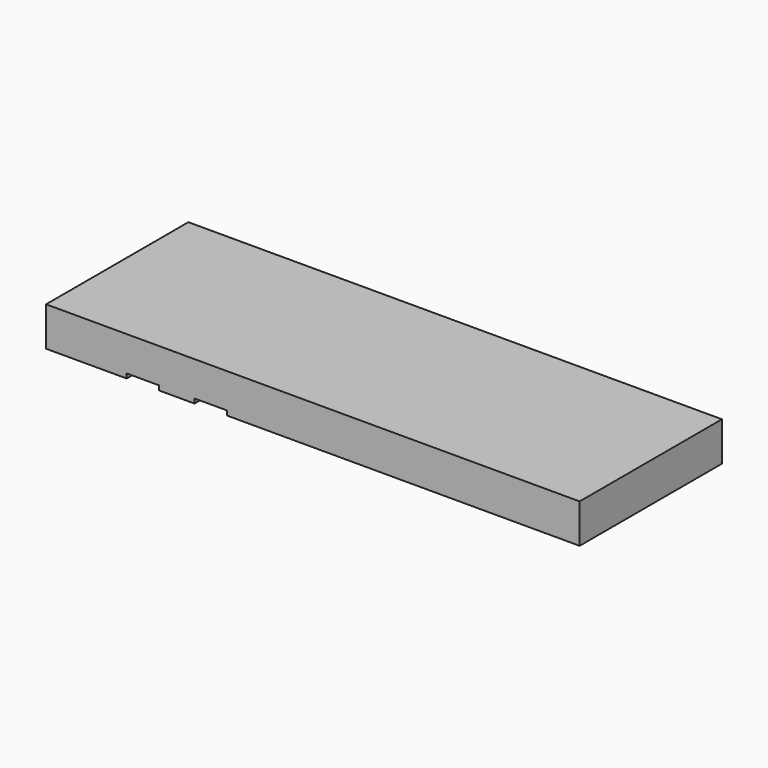
from build123d import *

# Parameters (mm, degrees)
F0_W     = 27.2
F0_H     = 13.6
F1_DEPTH = 3.8
F2_DEPTH = 33


with BuildPart() as f1:
    # F0 (on Top) → F1 (new body)
    with BuildSketch(Plane.XY):
        with Locations((-139.193566, -91.901369)):
            Rectangle(F0_W, F0_H)
        with Locations((-81.993566, -91.901369)):
            Rectangle(F0_W, F0_H)
    extrude(amount=F1_DEPTH)


with BuildPart() as f2:
    # F0 (on Top) → F2 (new body)
    with BuildSketch(Plane.XY):
        Polygon((229.206434, 51.298631), (-220.793566, 51.298631), (-220.793566, -98.701369), (-152.793566, -98.701369), (-152.793566, -85.101369), (-125.593566, -85.101369), (-125.593566, -98.701369), (-95.593566, -98.701369), (-95.593566, -85.101369), (-68.393566, -85.101369), (-68.393566, -98.701369), (229.206434, -98.701369), align=None)
        with Locations((-139.193566, -91.901369)):
            Rectangle(F0_W, F0_H)
        with Locations((-81.993566, -91.901369)):
            Rectangle(F0_W, F0_H)
    extrude(amount=F2_DEPTH)

    # F3: cut F1
    add(f1.part, mode=Mode.SUBTRACT)


solid = f2.part
